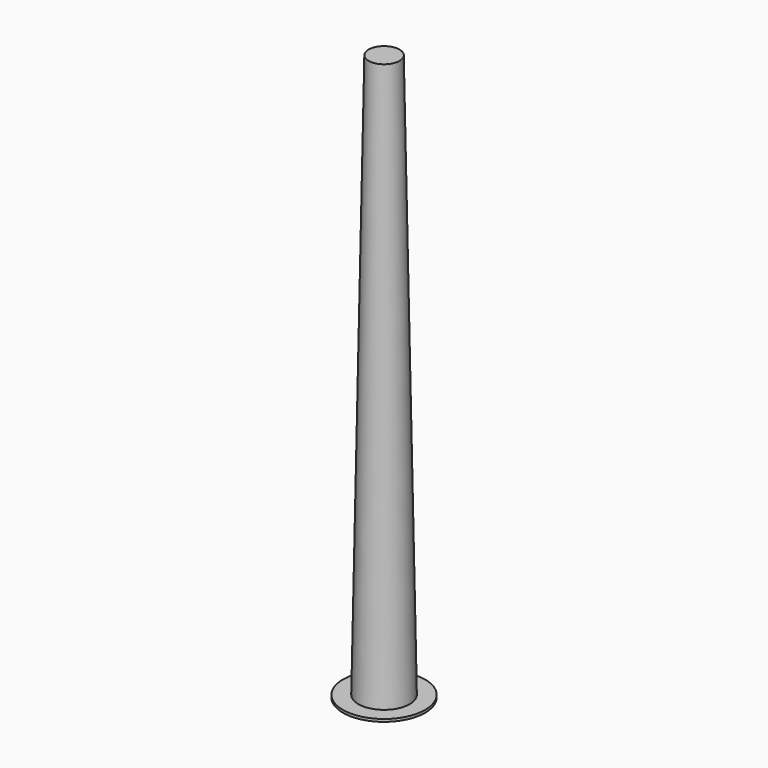
from build123d import *

# Parameters (mm, degrees)
F2_R     = 50.8
F2_R_2   = 31.75
F3_DEPTH = 3.175


with BuildPart() as f1:
    # F0 (on Front) → F1 (revolve)
    with BuildSketch(Plane.XZ):
        Polygon((19.05, 698.5), (0, 698.5), (0, 0), (31.75, 0), align=None)
    revolve(axis=Axis((0, 0, 349.25), (0, 0, 1)))

    # F2 (on face) → F3 (join)
    with BuildSketch(Plane(origin=(0, 0, 0), x_dir=(1, 0, 0), z_dir=(0, 0, -1))):
        Circle(F2_R)
        Circle(F2_R_2, mode=Mode.SUBTRACT)
        Circle(F2_R_2)
    extrude(amount=-F3_DEPTH)


solid = f1.part
